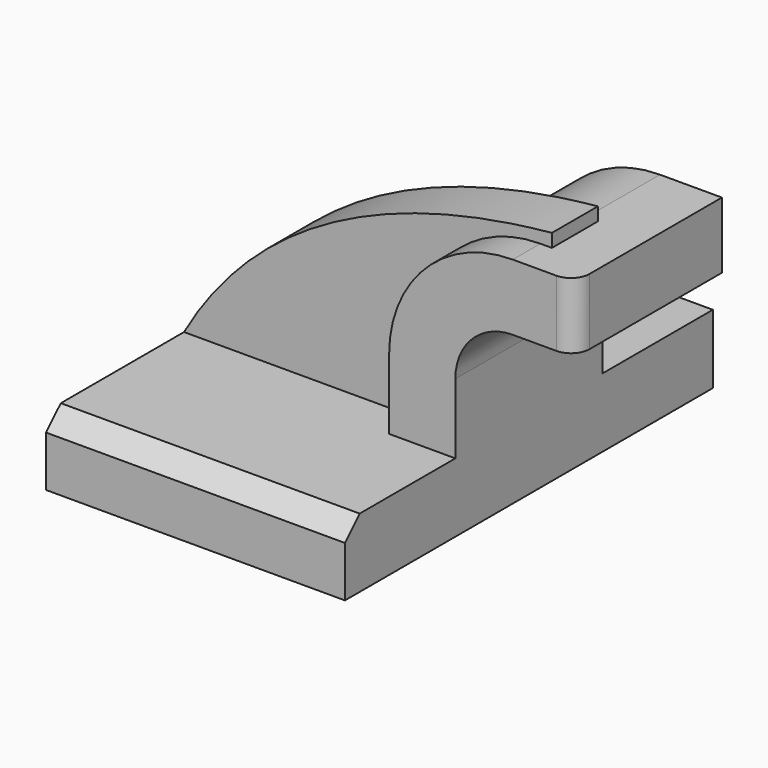
from build123d import *

# Parameters (mm, degrees)
F1_DEPTH = 63.5
F0_W     = 13.9366841115
F0_H     = 18.2897937342
F2_DEPTH = 25.4
F3_DEPTH = 15.875
F4_SIZE  = 5.08
F5_R     = 5.08


with BuildPart() as f1:
    # F0 (on Front) → F1 (new body, symmetric)
    with BuildSketch(Plane.XZ):
        Polygon((22.9852062658, 9.525), (-41.275, 9.525), (-41.275, -9.525), (41.275, -9.525), (41.275, 9.525), align=None)
    extrude(amount=F1_DEPTH, both=True)

    # F0 (on Front) → F2 (join, symmetric)
    with BuildSketch(Plane.XZ):
        with BuildLine():
            Line((22.9852062658, 28.8565382361), (22.9852062658, 9.525))
            Line((22.9852062658, 9.525), (41.275, 9.525))
            Line((41.275, 9.525), (41.275, 28.8565382361))
            ThreePointArc((41.275, 28.8565382361), (45.9246798487, 40.0818583875), (57.15, 44.7315382361))
            Line((57.15, 44.7315382361), (60.325, 44.7315382361))
            Line((60.325, 44.7315382361), (60.325, 63.0213319704))
            Line((60.325, 63.0213319704), (57.15, 63.0213319704))
            ThreePointArc((57.15, 63.0213319704), (32.9918426727, 53.0146955635), (22.9852062658, 28.8565382361))
        make_face()
        with Locations((67.2933420557, 53.8764351033)):
            Rectangle(F0_W, F0_H)
    extrude(amount=F2_DEPTH, both=True)

    # F0 (on Front) → F3 (join)
    with BuildSketch(Plane.XZ):
        with BuildLine():
            add(Edge.make_bspline(
                [(-41.275, 9.525), (-18.0427934974, 50.5091771483), (24.8379260302, 63.2460191846), (60.325, 66.675)],
                knots=[0, 0, 0, 0, 116.5705044169, 116.5705044169, 116.5705044169, 116.5705044169], degree=3))
            Line((-41.275, 9.525), (22.9852062658, 9.525))
            Line((22.9852062658, 9.525), (22.9852062658, 28.8565382361))
            ThreePointArc((22.9852062658, 28.8565382361), (32.9918426727, 53.0146955635), (57.15, 63.0213319704))
            Line((57.15, 63.0213319704), (60.325, 63.0213319704))
            Line((60.325, 63.0213319704), (60.325, 66.675))
        make_face()
    extrude(amount=F3_DEPTH)

    # F4
    f4_edges = [f1.edges().sort_by_distance(p)[0] for p in [
        (0, -63.5, 9.525),
    ]]
    chamfer(f4_edges, length=F4_SIZE)

    # F5
    f5_edges = [f1.edges().sort_by_distance(p)[0] for p in [
        (74.261684, -25.4, 53.876435),
    ]]
    fillet(f5_edges, radius=F5_R)


solid = f1.part
